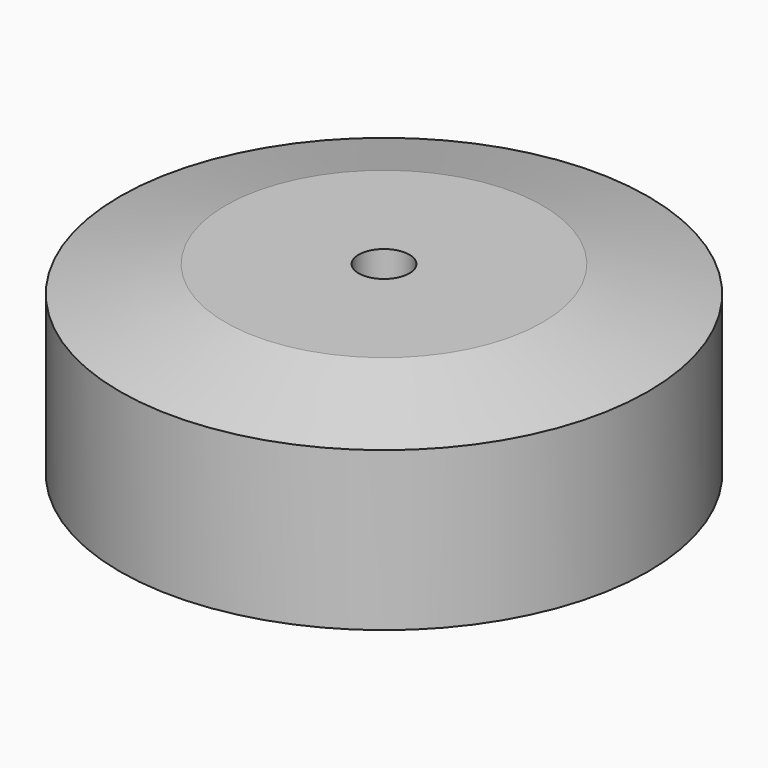
from build123d import *

# Parameters (mm, degrees)
F0_R     = 10.4166666667
F0_R_2   = 1
F1_DEPTH = 8.3333333333
F2_SIZE2 = 1.0416666667
F2_SIZE  = 4.1666666667
F3_SIZE2 = 4.1666666667
F3_SIZE  = 1.0416666667


with BuildPart() as f1:
    # F0 (on Top) → F1 (new body)
    with BuildSketch(Plane.XY):
        Circle(F0_R)
        Circle(F0_R_2, mode=Mode.SUBTRACT)
    extrude(amount=F1_DEPTH)

    # F2
    f2_edges = [f1.edges().sort_by_distance(p)[0] for p in [
        (-10.416667, 0, 8.333333),
    ]]
    f2_side = f1.faces().sort_by_distance((-10.122039, 0, 8.333333))[0]
    chamfer(f2_edges, length=F2_SIZE, length2=F2_SIZE2, reference=f2_side)

    # F3
    f3_edges = [f1.edges().sort_by_distance(p)[0] for p in [
        (-10.416667, 0, 0),
    ]]
    f3_side = f1.faces().sort_by_distance((-10.416667, 0, 3.645833))[0]
    chamfer(f3_edges, length=F3_SIZE, length2=F3_SIZE2, reference=f3_side)


solid = f1.part
